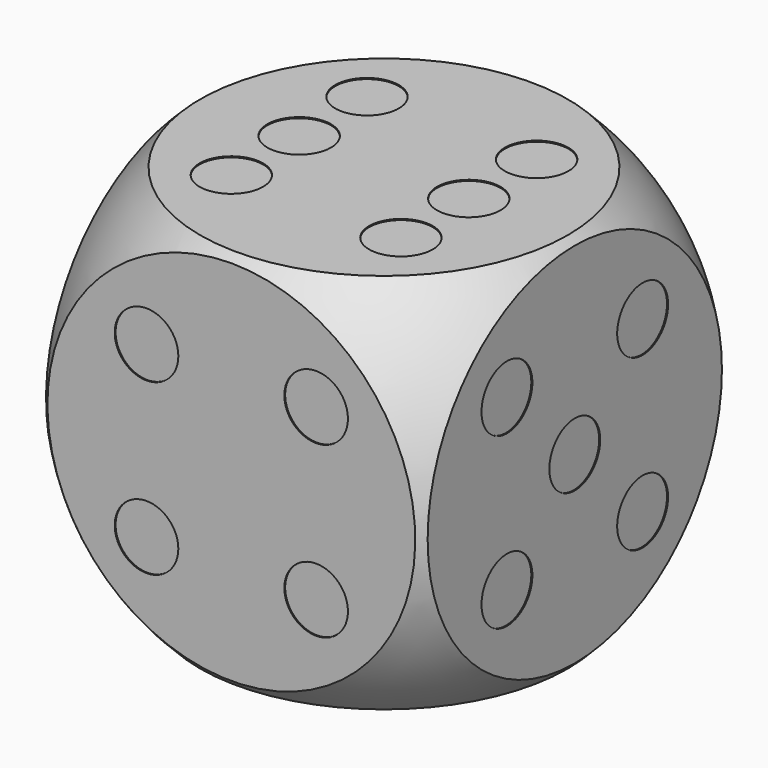
from build123d import *

# Parameters (mm, degrees)
BOX_W           = 36
BOX_H           = 36
BOX_DEPTH       = 36
SKETCH_R        = 3
POCKET_DEPTH    = 0.1
SKETCH001_R     = 3
POCKET001_DEPTH = 0.1
SKETCH002_R     = 3
POCKET002_DEPTH = 0.1
SKETCH003_R     = 3
POCKET003_DEPTH = 0.1
SKETCH004_R     = 3
POCKET004_DEPTH = 0.1
SKETCH005_R     = 3
POCKET005_DEPTH = 0.1


with BuildPart() as clue:
    # Sphere → Sphere (revolve)
    with BuildSketch(Plane.XZ):
        with BuildLine():
            ThreePointArc((0, -25), (25, 0), (0, 25))
            Line((0, 25), (0, -25))
        make_face()
    revolve(axis=Axis((0, 0, 0), (0, 0, 1)))


with BuildPart() as pocket005:
    # Box → Box (new body)
    with BuildSketch(Plane(origin=(-18, -18, -18), x_dir=(1, 0, 0), z_dir=(0, 0, 1))):
        with Locations((18, 18)):
            Rectangle(BOX_W, BOX_H)
    extrude(amount=BOX_DEPTH)

    # Common: intersect Clue
    add(clue.part, mode=Mode.INTERSECT)

    # Sketch (on Face3 of Common) → Pocket (cut)
    with BuildSketch(Plane.XY.offset(18)):
        with Locations((-8, 8)):
            Circle(SKETCH_R)
        with Locations((-8, 0)):
            Circle(SKETCH_R)
        with Locations((-8, -8)):
            Circle(SKETCH_R)
        with Locations((8, 8)):
            Circle(SKETCH_R)
        with Locations((8, 0)):
            Circle(SKETCH_R)
        with Locations((8, -8)):
            Circle(SKETCH_R)
    extrude(amount=-POCKET_DEPTH, mode=Mode.SUBTRACT)

    # Sketch001 (on Face4 of Pocket) → Pocket001 (cut)
    with BuildSketch(Plane.YZ.offset(18)):
        with Locations((-8, 8)):
            Circle(SKETCH001_R)
        with Locations((8, 8)):
            Circle(SKETCH001_R)
        with Locations((-8, -8)):
            Circle(SKETCH001_R)
        with Locations((8, -8)):
            Circle(SKETCH001_R)
        Circle(SKETCH001_R)
    extrude(amount=-POCKET001_DEPTH, mode=Mode.SUBTRACT)

    # Sketch002 (on Face6 of Pocket001) → Pocket002 (cut)
    with BuildSketch(Plane.XZ.offset(18)):
        with Locations((-8, 8)):
            Circle(SKETCH002_R)
        with Locations((-8, -8)):
            Circle(SKETCH002_R)
        with Locations((8, 8)):
            Circle(SKETCH002_R)
        with Locations((8, -8)):
            Circle(SKETCH002_R)
    extrude(amount=-POCKET002_DEPTH, mode=Mode.SUBTRACT)

    # Sketch003 (on Face7 of Pocket002) → Pocket003 (cut)
    with BuildSketch(Plane(origin=(0, 18, 0), x_dir=(-1, 0, 0), z_dir=(0, 1, 0))):
        with Locations((8, 8)):
            Circle(SKETCH003_R)
        Circle(SKETCH003_R)
        with Locations((-8, -8)):
            Circle(SKETCH003_R)
    extrude(amount=-POCKET003_DEPTH, mode=Mode.SUBTRACT)

    # Sketch004 (on Face1 of Pocket003) → Pocket004 (cut)
    with BuildSketch(Plane(origin=(-18, 0, 0), x_dir=(0, -1, 0), z_dir=(-1, 0, 0))):
        with Locations((8, 8)):
            Circle(SKETCH004_R)
        with Locations((-8, -8)):
            Circle(SKETCH004_R)
    extrude(amount=-POCKET004_DEPTH, mode=Mode.SUBTRACT)

    # Sketch005 (on Face7 of Pocket004) → Pocket005 (cut)
    with BuildSketch(Plane(origin=(0, 0, -18), x_dir=(1, 0, 0), z_dir=(0, 0, -1))):
        Circle(SKETCH005_R)
    extrude(amount=-POCKET005_DEPTH, mode=Mode.SUBTRACT)


solid = pocket005.part
